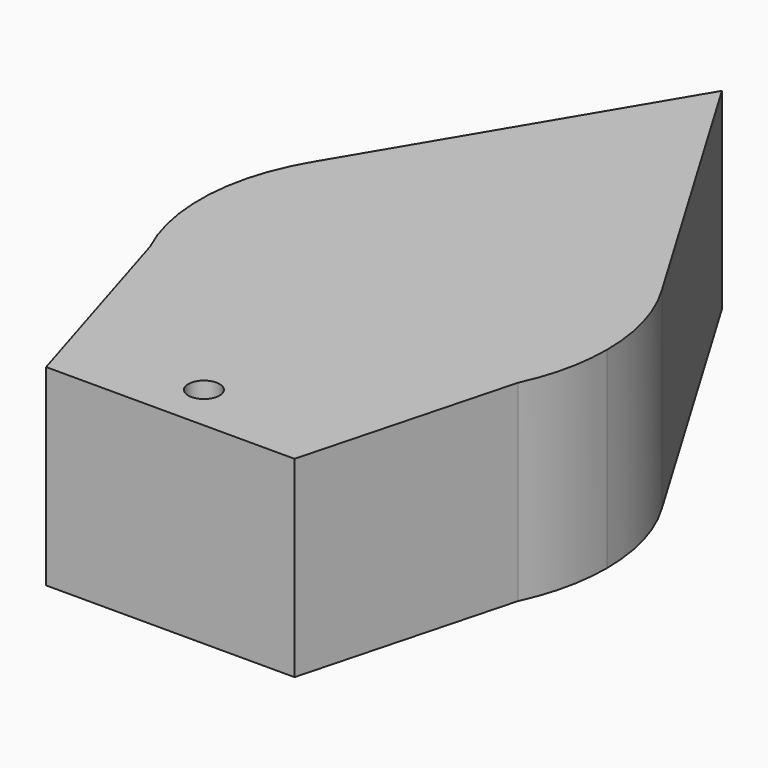
from build123d import *

# Parameters (mm, degrees)
F0_R     = 2.443281
F1_DEPTH = 30


with BuildPart() as f1:
    # F0 (on Top) → F1 (new body)
    with BuildSketch(Plane.XY):
        with BuildLine():
            ThreePointArc((28.721986, -13.531815), (30.98375, -6.933233), (31.75, 0))
            ThreePointArc((31.75, 0), (30.57075, 8.572731), (27.120601, 16.50865))
            ThreePointArc((27.120601, 16.50865), (0, 31.75), (-27.120601, 16.50865))
            ThreePointArc((-27.120601, 16.50865), (-31.704984, 1.690117), (-28.721986, -13.531815))
            ThreePointArc((-28.721986, -13.531815), (0, -31.75), (28.721986, -13.531815))
        make_face()
        with BuildLine():
            ThreePointArc((-27.120601, 16.50865), (0, 31.75), (27.120601, 16.50865))
            Line((27.120601, 16.50865), (0, 62.114831))
            Line((0, 62.114831), (-27.120601, 16.50865))
        make_face()
        with BuildLine():
            Line((19.992732, -46.242733), (28.721986, -13.531815))
            ThreePointArc((28.721986, -13.531815), (0, -31.75), (-28.721986, -13.531815))
            Line((-28.721986, -13.531815), (-18.771805, -46.242733))
            Line((-18.771805, -46.242733), (19.992732, -46.242733))
        make_face()
        with Locations((0, -38.917154)):
            Circle(F0_R, mode=Mode.SUBTRACT)
    extrude(amount=F1_DEPTH)


solid = f1.part
